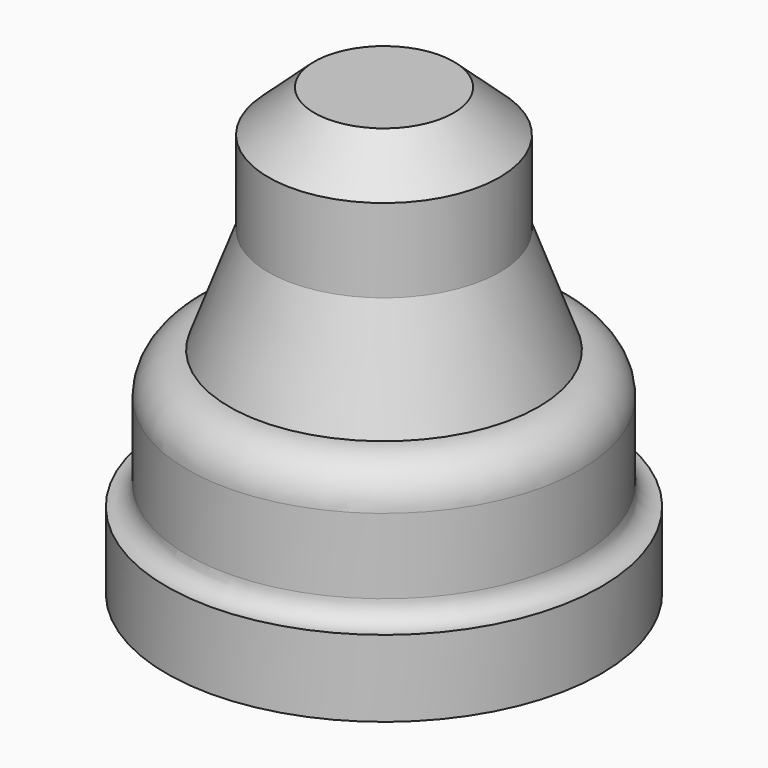
from build123d import *


with BuildPart() as f1:
    # F0 (on Front) → F1 (revolve)
    with BuildSketch(Plane.XZ):
        with BuildLine():
            Line((0, 16), (0, -16))
            Line((0, -16), (15.6, -16))
            Line((15.6, -16), (15.6, -10.5))
            ThreePointArc((15.6, -10.5), (14.53934, -10.06066), (14.1, -9))
            Line((14.1, -9), (14.1, -3.6))
            ThreePointArc((14.1, -3.6), (13.22132, -1.47868), (11.1, -0.6))
            Line((11.1, -0.6), (8.3, 7))
            Line((8.3, 7), (8.3, 13))
            Line((8.3, 13), (5, 16))
            Line((5, 16), (0, 16))
        make_face()
    revolve(axis=Axis((0, 0, 0), (0, 0, 1)))


solid = f1.part
